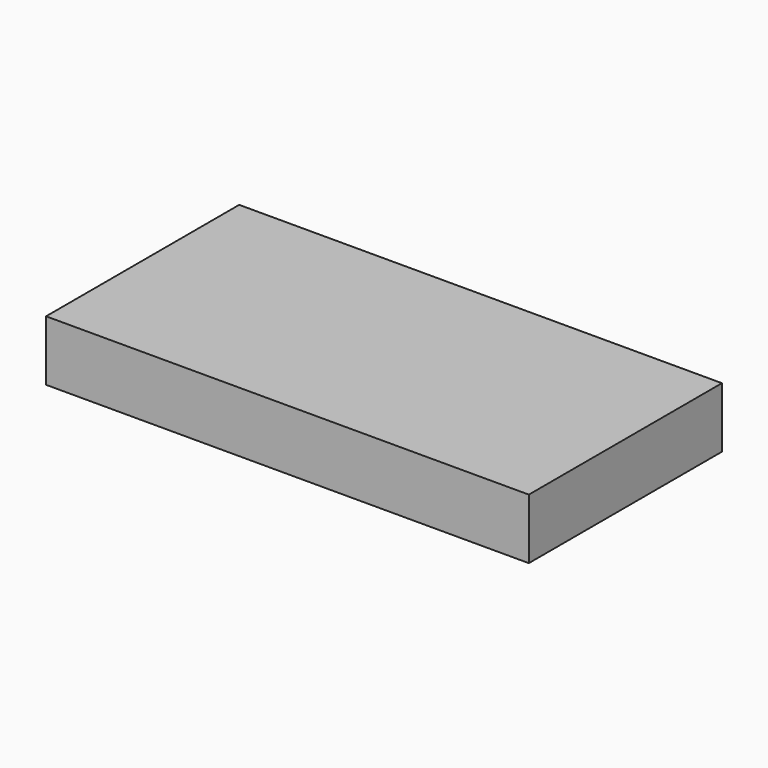
from build123d import *

# Parameters (mm, degrees)
F0_W     = 200
F0_H     = 100
F1_DEPTH = 25
F2_DEPTH = 25
F3_DEPTH = 25


with BuildPart() as f1:
    # F0 (on Top) → F1 (new body)
    with BuildSketch(Plane.XY):
        with Locations((68.119971, 25.614946)):
            Rectangle(F0_W, F0_H)
    extrude(amount=F1_DEPTH)

    # F0 (on Top) → F2 (join)
    with BuildSketch(Plane.XY):
        with Locations((68.119971, 25.614946)):
            Rectangle(F0_W, F0_H)
    extrude(amount=F2_DEPTH)

    # F0 (on Top) → F3 (join)
    with BuildSketch(Plane.XY):
        with Locations((68.119971, 25.614946)):
            Rectangle(F0_W, F0_H)
    extrude(amount=F3_DEPTH)


solid = f1.part
